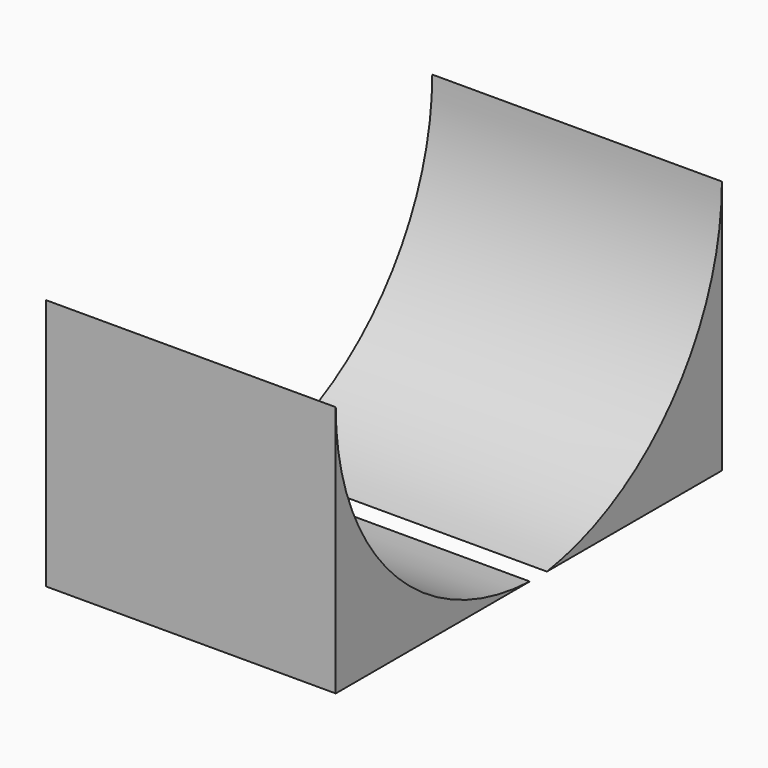
from build123d import *

# Parameters (mm, degrees)
F1_DEPTH = 152.4


with BuildPart() as f1:
    # F0 (on Right) → F1 (new body)
    with BuildSketch(Plane.YZ):
        with BuildLine():
            ThreePointArc((126.374365, 133.881767), (93.63927, 45.598982), (11.261059, 0))
            Line((11.261059, 0), (126.374365, 0))
            Line((126.374365, 0), (126.374365, 133.881767))
        make_face()
        with BuildLine():
            Line((-127.625635, 132.630519), (-127.625635, 0))
            Line((-127.625635, 0), (0, 0))
            ThreePointArc((0, 0), (-90.537486, 40.599061), (-127.625635, 132.630519))
        make_face()
    extrude(amount=F1_DEPTH)


solid = f1.part
